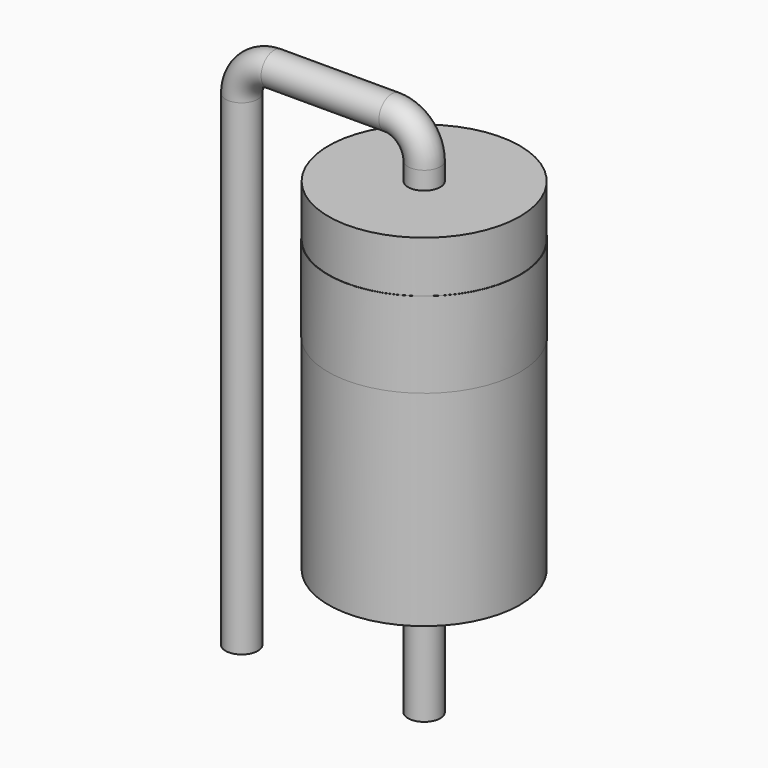
from build123d import *

# Parameters (mm, degrees)
SKETCH001_R = 0.45
SKETCH002_W = 2.665
SKETCH002_H = 9.52
SKETCH003_W = 2.675
SKETCH003_H = 2.38


with BuildPart() as sweep_body:
    # Sweep: sweep along a path in Sketch
    with BuildLine(Plane.XZ) as sweep_path:
        Line((0, -3), (0, 10.52))
        ThreePointArc((0, 10.52), (0.263604, 11.156396), (0.9, 11.42))
        Line((0.9, 11.42), (4.18, 11.42))
        ThreePointArc((4.18, 11.42), (4.816396, 11.156396), (5.08, 10.52))
        Line((5.08, 10.52), (5.08, -3))
    # Sketch001 → Sweep (sweep)
    with BuildSketch(Plane.XY):
        Circle(SKETCH001_R)
    sweep(path=sweep_path.line)


with BuildPart() as revolution:
    # Sketch002 → Revolution (revolve)
    with BuildSketch(Plane.XZ):
        with Locations((6.4125, 5.26)):
            Rectangle(SKETCH002_W, SKETCH002_H)
    revolve(axis=Axis((5.08, 0, 0.5), (0, 0, 1)))


with BuildPart() as revolution001:
    # Sketch003 → Revolution001 (revolve)
    with BuildSketch(Plane.XZ):
        with Locations((6.4175, 7.402)):
            Rectangle(SKETCH003_W, SKETCH003_H)
    revolve(axis=Axis((5.08, 0, 6.212), (0, 0, 1)))


solid = Compound([sweep_body.part, revolution.part, revolution001.part])
